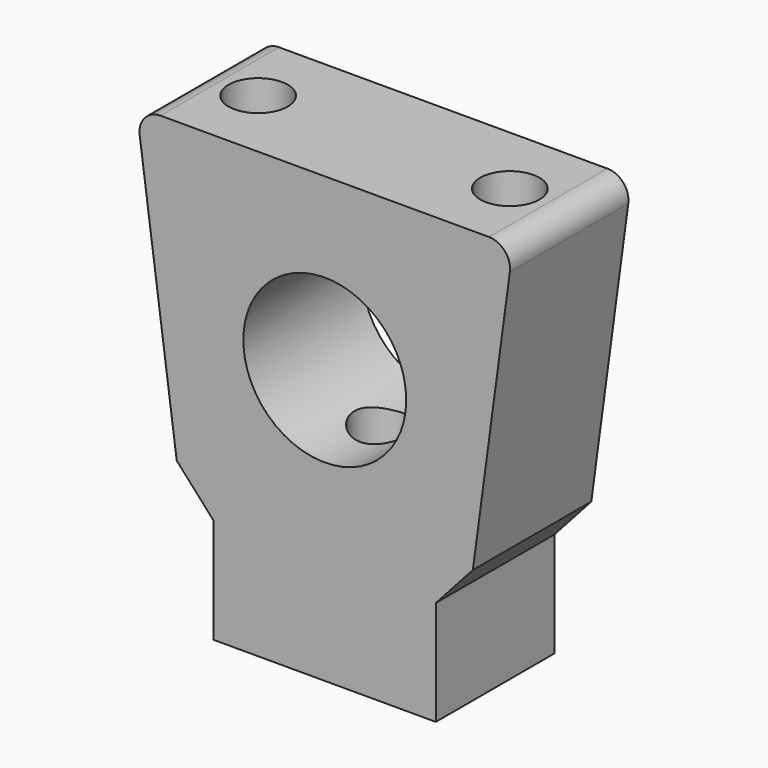
from build123d import *

# Parameters (mm, degrees)
SKETCH002_R      = 4
EXTRUDE002_DEPTH = 30
SKETCH001_R      = 4
EXTRUDE001_DEPTH = 30
SKETCH_R         = 11
EXTRUDE_DEPTH    = 10


with BuildPart() as extrude002:
    # Sketch002 (on Face1 of Cut) → Extrude002 (new body)
    with BuildSketch(Plane.XY.offset(30)):
        with Locations((2, 0)):
            Circle(SKETCH002_R)
        with Locations((-32, 0)):
            Circle(SKETCH002_R)
    extrude(amount=-EXTRUDE002_DEPTH)


with BuildPart() as extrude001:
    # Sketch001 (on Face6 of Extrude) → Extrude001 (new body)
    with BuildSketch(Plane(origin=(0, 0, -30), x_dir=(1, 0, 0), z_dir=(0, 0, -1))):
        with Locations((-15, 0)):
            Circle(SKETCH001_R)
    extrude(amount=-EXTRUDE001_DEPTH)


with BuildPart() as body:
    # Sketch → Extrude (new body, symmetric)
    with BuildSketch(Plane(origin=(-15, 0, -30), x_dir=(1, 0, 0), z_dir=(0, -1, 0))):
        with BuildLine():
            Line((-22.179407, 60), (22.179407, 60))
            ThreePointArc((25, 56.773532), (24.322176, 59.027097), (22.179407, 60))
            Line((25, 56.773532), (20, 19.694224))
            Line((20, 19.694224), (15, 14.141195))
            Line((15, 14.141195), (15, 0))
            Line((15, 0), (-15, 0))
            Line((-15, 0), (-15, 14.141195))
            Line((-15, 14.141195), (-20, 19.694224))
            Line((-20, 19.694224), (-25, 56.773532))
            ThreePointArc((-22.179407, 60), (-24.322176, 59.027097), (-25, 56.773532))
        make_face()
        with Locations((0, 36.968787)):
            Circle(SKETCH_R, mode=Mode.SUBTRACT)
    extrude(amount=EXTRUDE_DEPTH, both=True)

    # Cut: cut Extrude001
    add(extrude001.part, mode=Mode.SUBTRACT)

    # Cut001: cut Extrude002
    add(extrude002.part, mode=Mode.SUBTRACT)


solid = body.part
